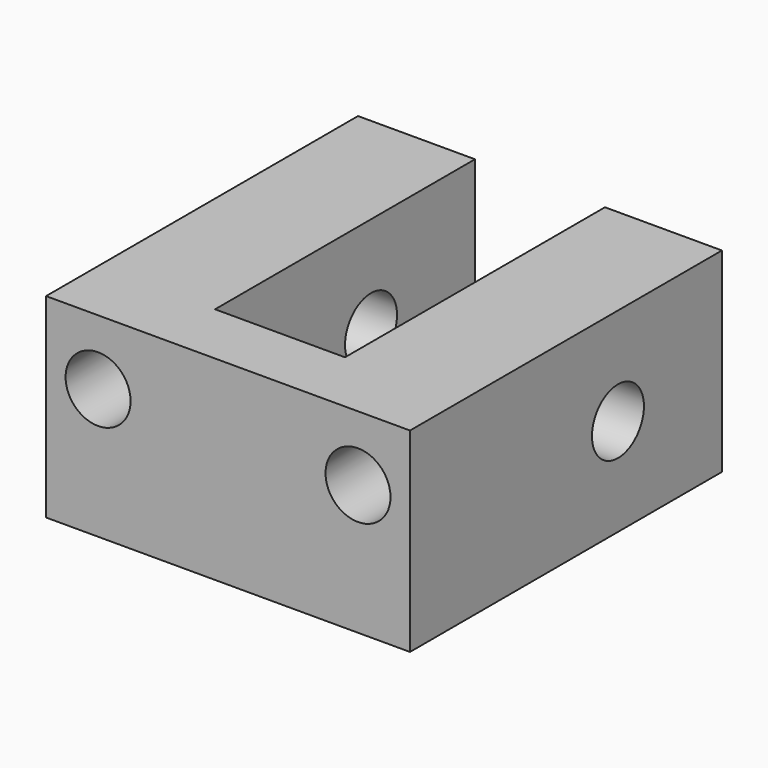
from build123d import *

# Parameters (mm, degrees)
F0_W     = 11.43
F0_H     = 12.7
F1_DEPTH = 9.525
F2_R     = 3.175
F3_DEPTH = 39.74366
F4_R     = 3.175
F5_DEPTH = 12.7


with BuildPart() as f1:
    # F0 (on Top) → F1 (new body, symmetric)
    with BuildSketch(Plane.XY):
        with Locations((-12.065, 6.35)):
            Rectangle(F0_W, F0_H)
        Polygon((-6.35, -19.05), (-6.35, 0), (-17.78, 0), (-17.78, -25.4), (0, -25.4), (17.78, -25.4), (17.78, 12.7), (6.35, 12.7), (6.35, -19.05), align=None)
    extrude(amount=F1_DEPTH, both=True)

    # F2 (on face) → F3 (cut)
    with BuildSketch(Plane.YZ.offset(17.78)):
        Circle(F2_R)
    extrude(amount=-F3_DEPTH, mode=Mode.SUBTRACT)

    # F4 (on face) → F5 (cut)
    with BuildSketch(Plane.XZ.offset(25.4)):
        with Locations((-12.7, 3.175)):
            Circle(F4_R)
        with Locations((12.7, 3.175)):
            Circle(F4_R)
    extrude(amount=-F5_DEPTH, mode=Mode.SUBTRACT)


solid = f1.part
